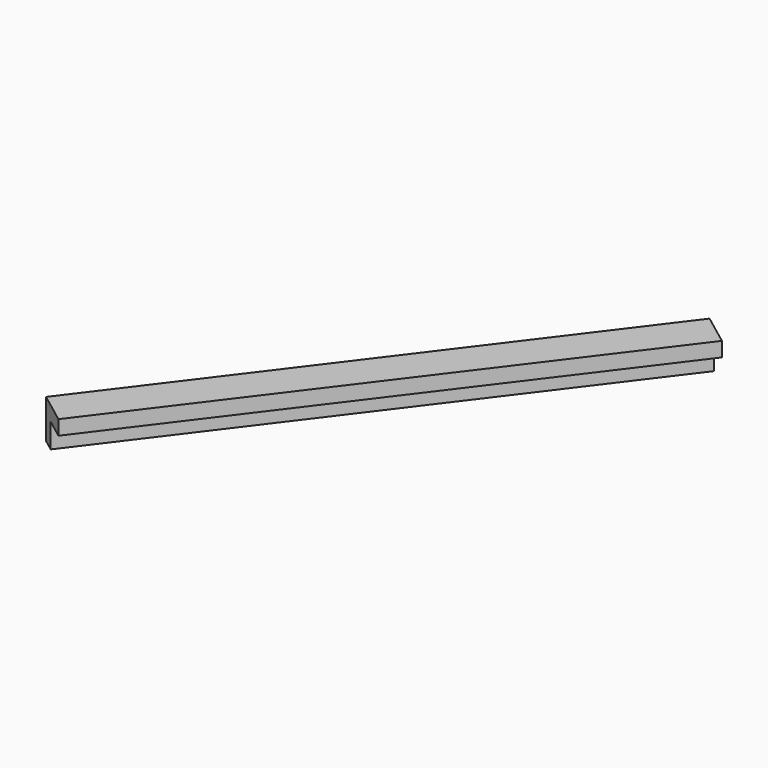
from build123d import *

# Parameters (mm, degrees)
BOX193_W               = 0.8
BOX193_H               = 11
BOX193_DEPTH           = 0.8
BOX194_W               = 0.8
BOX194_H               = 11
BOX194_DEPTH           = 0.8
CUT100_PLACEMENT_ANGLE = 143


with BuildPart() as cubo193:
    # Box193 → Box193 (new body)
    with BuildSketch(Plane.XY):
        with Locations((0.4, 5.5)):
            Rectangle(BOX193_W, BOX193_H)
    extrude(amount=BOX193_DEPTH)


with BuildPart() as obj1:
    # Box194 → Box194 (new body)
    with BuildSketch(Plane(origin=(0.3, 0, 0.3), x_dir=(1, 0, 0), z_dir=(0, 0, 1))):
        with Locations((0.4, 5.5)):
            Rectangle(BOX194_W, BOX194_H)
    extrude(amount=BOX194_DEPTH)

    # Cut100: cut Cubo193
    add(cubo193.part, mode=Mode.SUBTRACT)


with BuildPart() as obj1_1:
    # Cut100 placement: moved
    add(obj1.part.moved(Location((-86.9, 216, -1.45))).rotate(Axis((-86.9, 216, -1.45), (0, 0, 1)), CUT100_PLACEMENT_ANGLE))


solid = obj1_1.part
